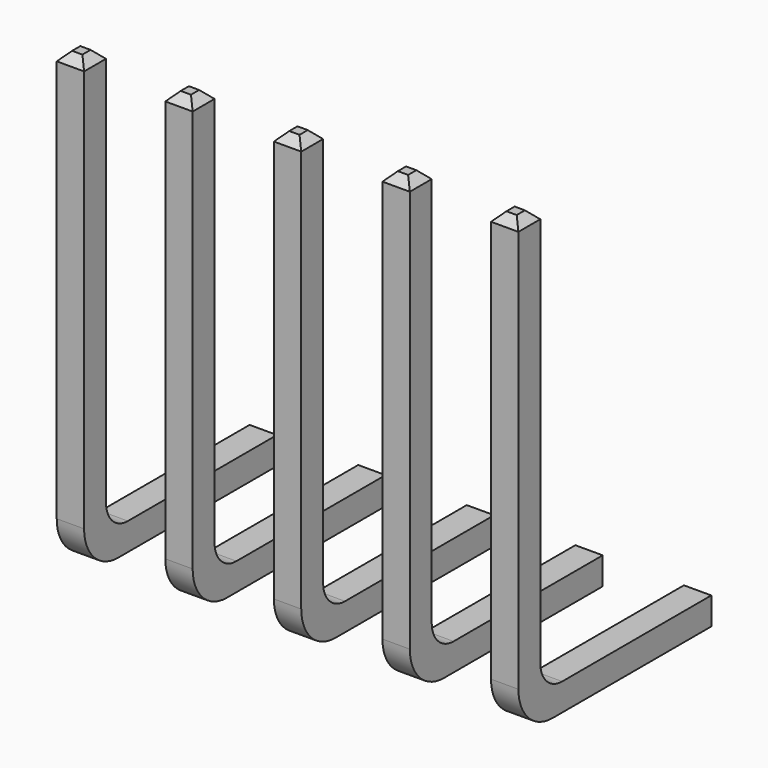
from build123d import *

# Parameters (mm, degrees)
PAD001_DEPTH     = 0.64
CHAMFER003_SIZE  = 0.2
FILLET001003_R   = 0.64
FILLET001004_R   = 1
ARRAY002_X_COUNT = 5
ARRAY002_X_PITCH = 2.54


with BuildPart() as part:
    # Sketch001 → Pad001 (new body)
    with BuildSketch(Plane.YZ):
        Polygon((0, 10.62), (0.64, 10.62), (0.64, 0.64), (5.84, 0.64), (5.84, 0), (0, 0), align=None)
    extrude(amount=PAD001_DEPTH)


with BuildPart() as part_1:
    # Compound placement: moved
    add(part.part.moved(Location((-5.4, 0.95, -2.82))))

    # Chamfer003
    chamfer003_edges = [part_1.edges().sort_by_distance(p)[0] for p in [
        (-5.08, 0.95, 7.8),
        (-5.08, 1.59, 7.8),
        (-5.4, 1.27, 7.8),
        (-4.76, 1.27, 7.8),
        (-5.08, 6.79, -2.18),
        (-5.08, 6.79, -2.82),
        (-5.4, 6.79, -2.5),
        (-4.76, 6.79, -2.5),
    ]]
    chamfer(chamfer003_edges, length=CHAMFER003_SIZE)

    # Fillet001003
    fillet001003_edges = [part_1.edges().sort_by_distance(p)[0] for p in [
        (-5.08, 1.59, -2.18),
    ]]
    fillet(fillet001003_edges, radius=FILLET001003_R)

    # Fillet001004
    fillet001004_edges = [part_1.edges().sort_by_distance(p)[0] for p in [
        (-5.08, 0.95, -2.82),
    ]]
    fillet(fillet001004_edges, radius=FILLET001004_R)

    # Array002 X: part ×5


with BuildPart() as part_2:
    add(part_1.part)
    with Locations(*[(i * ARRAY002_X_PITCH, 0, 0) for i in range(1, ARRAY002_X_COUNT)]):
        add(part_1.part)


solid = part_2.part
